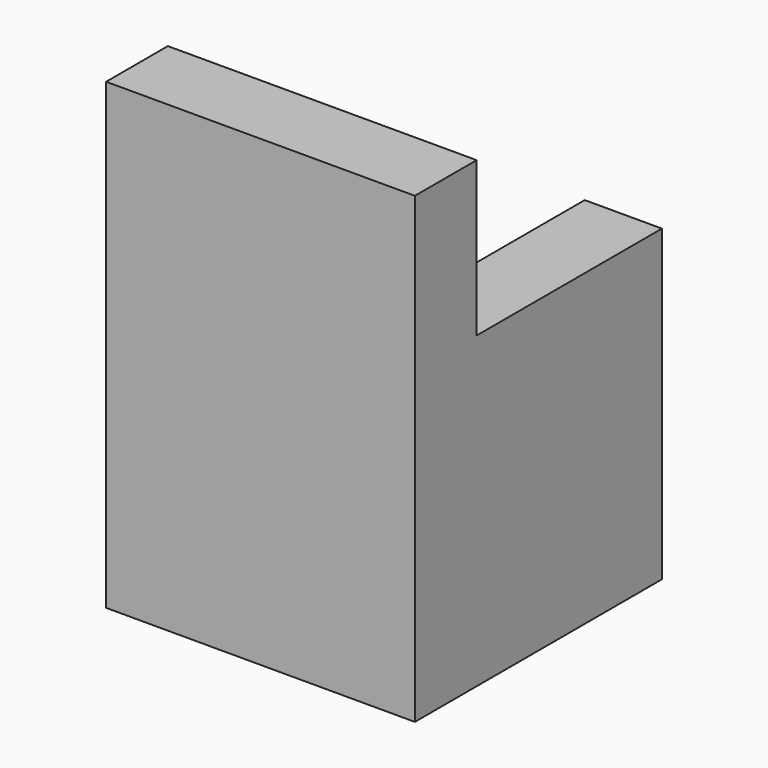
from build123d import *

# Parameters (mm, degrees)
F0_W     = 50.8
F0_H     = 76.2
F1_DEPTH = 50.8
F2_W     = 25.4
F2_H     = 38.1
F3_DEPTH = 50.8
F4_W     = 38.1
F4_H     = 25.4
F5_DEPTH = 25.4
F6_W     = 38.1
F6_H     = 25.4
F7_DEPTH = 25.4


with BuildPart() as f1:
    # F0 (on Front) → F1 (new body)
    with BuildSketch(Plane.XZ):
        with Locations((-25.4, -38.1)):
            Rectangle(F0_W, F0_H)
    extrude(amount=-F1_DEPTH)

    # F2 (on face) → F3 (cut)
    with BuildSketch(Plane.XY):
        with Locations((-25.4, 31.75)):
            Rectangle(F2_W, F2_H)
    extrude(amount=-F3_DEPTH, mode=Mode.SUBTRACT)

    # F4 (on face) → F5 (cut)
    with BuildSketch(Plane(origin=(-50.8, 0, 0), x_dir=(0, -1, 0), z_dir=(-1, 0, 0))):
        with Locations((-31.75, -12.7)):
            Rectangle(F4_W, F4_H)
        with Locations((-31.75, -12.7)):
            Rectangle(F4_W, F4_H)
    extrude(amount=-F5_DEPTH, mode=Mode.SUBTRACT)

    # F6 (on face) → F7 (cut)
    with BuildSketch(Plane.YZ):
        with Locations((31.75, -12.7)):
            Rectangle(F6_W, F6_H)
    extrude(amount=-F7_DEPTH, mode=Mode.SUBTRACT)


solid = f1.part
